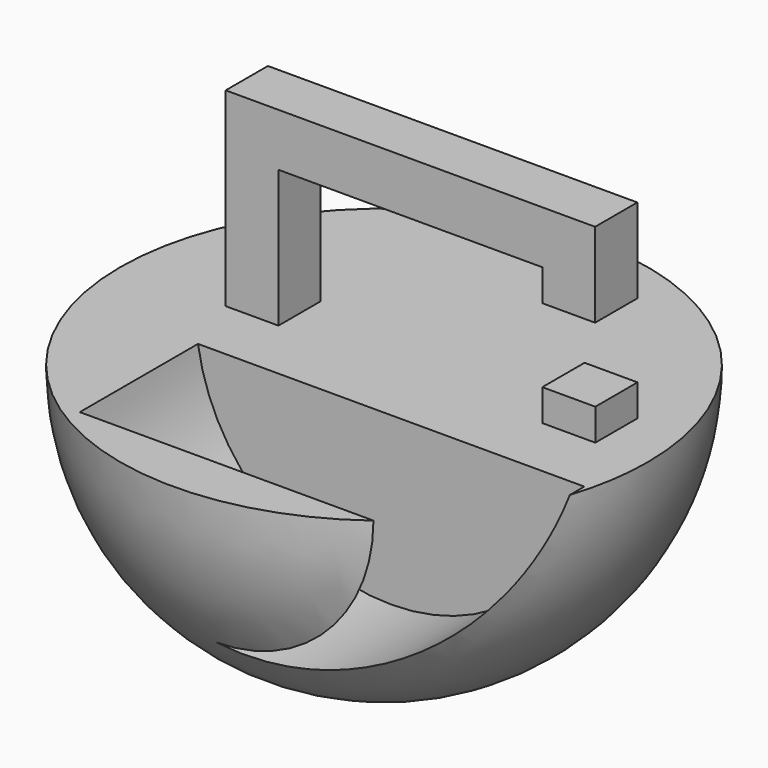
from build123d import *

# Parameters (mm, degrees)
SKETCH016_R                = 18.5
EXTRUDE030_DEPTH           = 14
EXTRUDE030_PLACEMENT_ANGLE = 90
SKETCH018_W                = 5.018169
SKETCH018_H                = 3
EXTRUDE031_DEPTH           = 5
BOX044_W                   = 210
BOX044_H                   = 320
BOX044_DEPTH               = 320
CUT053_PLACEMENT_ANGLE     = 90
EXTRUDE029_DEPTH           = 5


with BuildPart() as hueco004:
    # Sketch016 → Extrude030 (new body)
    with BuildSketch(Plane.XY):
        with Locations((53.478226, 36.958317)):
            Circle(SKETCH016_R)
    extrude(amount=EXTRUDE030_DEPTH)


with BuildPart() as hueco004_1:
    # Extrude030 placement: moved
    add(hueco004.part.moved(Location((-48, -6, -9.25))).rotate(Axis((-48, -6, -9.25), (1, 0, 0)), EXTRUDE030_PLACEMENT_ANGLE))


with BuildPart() as extrude031:
    # Sketch018 → Extrude031 (new body)
    with BuildSketch(Plane.XZ):
        with Locations((27.509085, -11.5)):
            Rectangle(SKETCH018_W, SKETCH018_H)
    extrude(amount=-EXTRUDE031_DEPTH)


with BuildPart() as cubo044:
    # Box044 → Box044 (new body)
    with BuildSketch(Plane(origin=(0, -151, -150), x_dir=(1, 0, 0), z_dir=(0, 0, 1))):
        with Locations((105, 160)):
            Rectangle(BOX044_W, BOX044_H)
    extrude(amount=BOX044_DEPTH)


with BuildPart() as cut052:
    # Sphere008 → Sphere008 (revolve)
    with BuildSketch(Plane.XZ):
        with BuildLine():
            ThreePointArc((0, -150), (150, 0), (0, 150))
            Line((0, 150), (0, -150))
        make_face()
    revolve(axis=Axis((0, 0, 0), (0, 0, 1)))

    # Cut052: cut Cubo044
    add(cubo044.part, mode=Mode.SUBTRACT)


with BuildPart() as cut053:
    # Sphere009 → Sphere009 (revolve)
    with BuildSketch(Plane.XZ):
        with BuildLine():
            ThreePointArc((0, -25), (25, 0), (0, 25))
            Line((0, 25), (0, -25))
        make_face()
    revolve(axis=Axis((0, 0, 0), (0, 0, 1)))

    # Cut053: cut Cut052
    add(cut052.part, mode=Mode.SUBTRACT)


with BuildPart() as cut053_1:
    # Cut053 placement: moved
    add(cut053.part.moved(Location((10, 0, -13))).rotate(Axis((10, 0, -13), (0, 1, 0)), CUT053_PLACEMENT_ANGLE))


with BuildPart() as cola:
    # Sketch017 → Extrude029 (new body)
    with BuildSketch(Plane.XZ):
        Polygon((0, 0), (25, 0), (25, -3), (30, -3), (30, 5), (-5, 5), (-5, -13), (0, -13), align=None)
    extrude(amount=-EXTRUDE029_DEPTH)

    # Fusion024: union Cut053
    add(cut053_1.part)

    # Fusion025: union Extrude031
    add(extrude031.part)


with BuildPart() as cola_1:
    # Fusion025 placement: moved
    add(cola.part.moved(Location((-10, 0, 38))))

    # Cut054: cut hueco004
    add(hueco004_1.part, mode=Mode.SUBTRACT)


with BuildPart() as cola_2:
    # Cut054 placement: moved
    add(cola_1.part.moved(Location((-72, 0, 0))))


solid = cola_2.part
